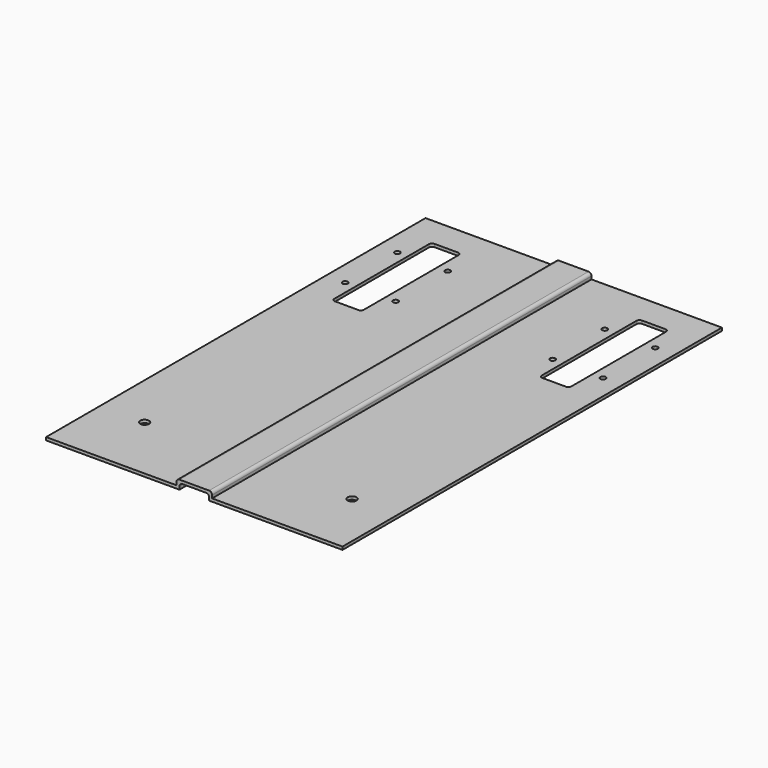
from build123d import *

# Parameters (mm, degrees)
F0_W     = 500
F0_H     = 800
F0_R     = 7.5
F0_R_2   = 4.5
F1_DEPTH = 5
F3_DEPTH = 800
F5_DEPTH = 800.001


with BuildPart() as f1:
    # F0 (on Top) → F1 (new body)
    with BuildSketch(Plane.XY):
        with Locations((0, -175)):
            Rectangle(F0_W, F0_H)
        with Locations((-175, -461)):
            Circle(F0_R, mode=Mode.SUBTRACT)
        with Locations((175, -461)):
            Circle(F0_R, mode=Mode.SUBTRACT)
        with Locations((-217.5, 15)):
            Circle(F0_R_2, mode=Mode.SUBTRACT)
        with Locations((-132.5, 15)):
            Circle(F0_R_2, mode=Mode.SUBTRACT)
        with BuildLine():
            ThreePointArc((-200, 170), (-198.535534, 173.535534), (-195, 175))
            Line((-195, 175), (-155, 175))
            ThreePointArc((-155, 175), (-151.464466, 173.535534), (-150, 170))
            Line((-150, 170), (-150, -30))
            ThreePointArc((-150, -30), (-151.464466, -33.535534), (-155, -35))
            Line((-155, -35), (-195, -35))
            ThreePointArc((-195, -35), (-198.535534, -33.535534), (-200, -30))
            Line((-200, -30), (-200, 170))
        make_face(mode=Mode.SUBTRACT)
        with Locations((-217.5, 125)):
            Circle(F0_R_2, mode=Mode.SUBTRACT)
        with Locations((-132.5, 125)):
            Circle(F0_R_2, mode=Mode.SUBTRACT)
        with Locations((132.5, 15)):
            Circle(F0_R_2, mode=Mode.SUBTRACT)
        with Locations((217.5, 15)):
            Circle(F0_R_2, mode=Mode.SUBTRACT)
        with BuildLine():
            Line((195, -35), (155, -35))
            ThreePointArc((155, -35), (151.464466, -33.535534), (150, -30))
            Line((150, -30), (150, 170))
            ThreePointArc((150, 170), (151.464466, 173.535534), (155, 175))
            Line((155, 175), (195, 175))
            ThreePointArc((195, 175), (198.535534, 173.535534), (200, 170))
            Line((200, 170), (200, -30))
            ThreePointArc((200, -30), (198.535534, -33.535534), (195, -35))
        make_face(mode=Mode.SUBTRACT)
        with Locations((132.5, 125)):
            Circle(F0_R_2, mode=Mode.SUBTRACT)
        with Locations((217.5, 125)):
            Circle(F0_R_2, mode=Mode.SUBTRACT)
    extrude(amount=F1_DEPTH)

    # F2 (on face) → F3 (join, through all)
    with BuildSketch(Plane.XZ.offset(575)):
        with BuildLine():
            Line((25, 15), (0, 15))
            Line((0, 15), (-25, 15))
            ThreePointArc((-25, 15), (-28.535534, 13.535534), (-30, 10))
            Line((-30, 10), (-30, 5))
            Line((-30, 5), (30, 5))
            Line((30, 5), (30, 10))
            ThreePointArc((30, 10), (28.535534, 13.535534), (25, 15))
        make_face()
    extrude(amount=-F3_DEPTH)

    # F4 (on face) → F5 (cut, through all)
    with BuildSketch(Plane.XZ.offset(575)):
        with BuildLine():
            Line((-25, 5), (-25, 0))
            Line((-25, 0), (25, 0))
            Line((25, 0), (25, 5))
            ThreePointArc((25, 5), (23.535534, 8.535534), (20, 10))
            Line((20, 10), (-20, 10))
            ThreePointArc((-20, 10), (-23.535534, 8.535534), (-25, 5))
        make_face()
    extrude(amount=-F5_DEPTH, mode=Mode.SUBTRACT)


solid = f1.part
